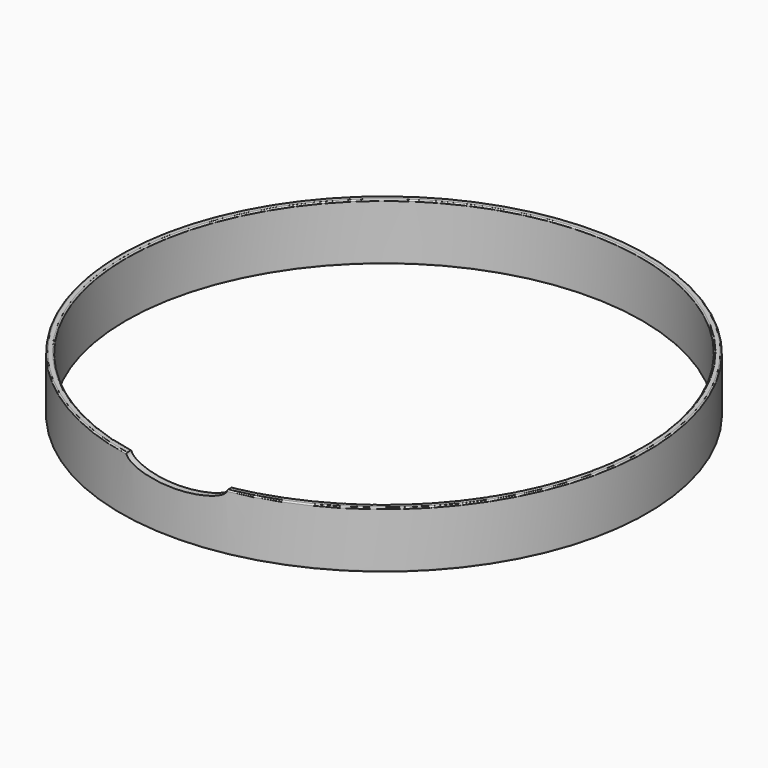
from build123d import *

# Parameters (mm, degrees)
F3_DEPTH = 457.2


with BuildPart() as f1:
    # F0 (on Front) → F1 (revolve)
    with BuildSketch(Plane.XZ):
        with BuildLine():
            Line((-205.6, 0.215417), (-208.6, 0.215417))
            ThreePointArc((-208.6, 0.215417), (-209.307107, -0.077476), (-209.6, -0.784583))
            Line((-209.6, -0.784583), (-209.6, -43.784583))
            ThreePointArc((-209.6, -43.784583), (-209.307107, -44.491689), (-208.6, -44.784583))
            Line((-208.6, -44.784583), (-205.6, -44.784583))
            ThreePointArc((-205.6, -44.784583), (-204.892893, -44.491689), (-204.6, -43.784583))
            Line((-204.6, -43.784583), (-204.6, -0.784583))
            ThreePointArc((-204.6, -0.784583), (-204.892893, -0.077476), (-205.6, 0.215417))
        make_face()
    revolve(axis=Axis((0, 0, -2.723343), (0, 0, -1)))

    # F2 (on Front) → F3 (cut)
    with BuildSketch(Plane.XZ):
        with BuildLine():
            add(Edge.make_bspline(
                [(40, 0.215417), (40, 17.535926), (-20, 8.875671), (-80, 0.215417), (-20, -8.444837), (40, -17.105091), (40, 0.215417)],
                knots=[0, 0, 0, 2.094395, 2.094395, 4.18879, 4.18879, 6.283185, 6.283185, 6.283185], degree=2, weights=[1, 0.5, 1, 0.5, 1, 0.5, 1]))
        make_face()
    extrude(amount=F3_DEPTH, mode=Mode.SUBTRACT)


solid = f1.part
